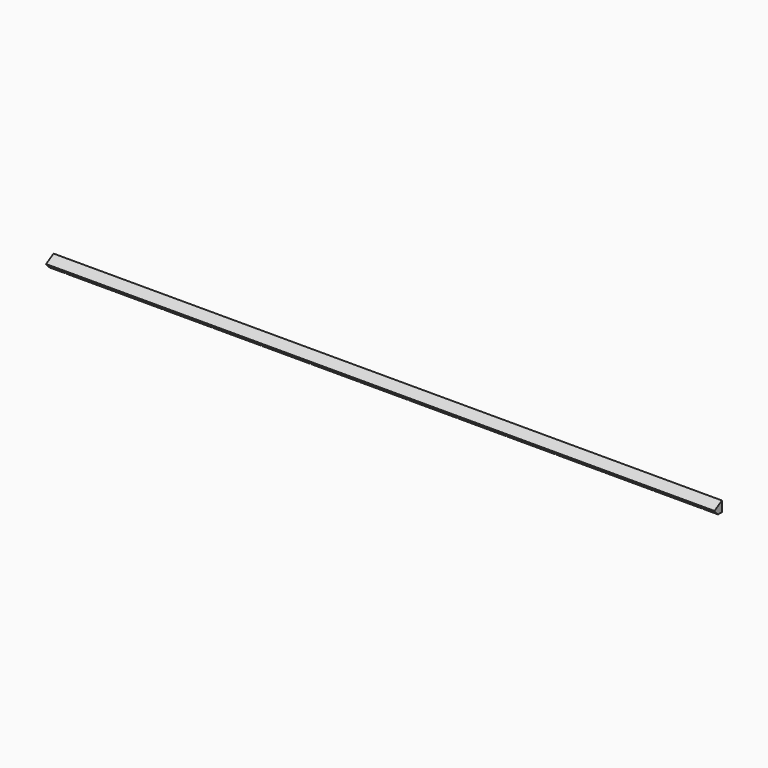
from build123d import *

# Parameters (mm, degrees)
PAD007_DEPTH           = 1500
POCKET004_DEPTH        = 11
LINEARPATTERN001_COUNT = 14
LINEARPATTERN001_PITCH = 110


with BuildPart() as part:
    # Sketch011 → Pad007 (new body)
    with BuildSketch(Plane.YZ):
        Polygon((92, 0), (81, 0), (71, 10), (71, 11), (92, 23.124356), align=None)
    extrude(amount=PAD007_DEPTH)

    # Sketch012 → Pocket004 (cut)
    with BuildSketch(Plane.XY):
        Polygon((6.70945, 46.612398), (8.29055, 45.387602), (35, 79.867074), (88.735058, 10.5), (78.064124, -3.275205), (79.645224, -4.5), (90, 8.867074), (100.354776, -4.5), (101.935876, -3.275205), (91.264942, 10.5), (118.29055, 45.387602), (116.70945, 46.612398), (90, 12.132926), (36.264942, 81.5), (46.935876, 95.275205), (45.354776, 96.5), (35, 83.132926), (24.645224, 96.5), (23.064124, 95.275205), (33.735058, 81.5), align=None)
    pocket004 = extrude(amount=POCKET004_DEPTH, mode=Mode.SUBTRACT)

    # LinearPattern001: Pocket004 ×14
    with Locations(*[(i * LINEARPATTERN001_PITCH, 0, 0) for i in range(1, LINEARPATTERN001_COUNT)]):
        add(pocket004, mode=Mode.SUBTRACT)


solid = part.part
